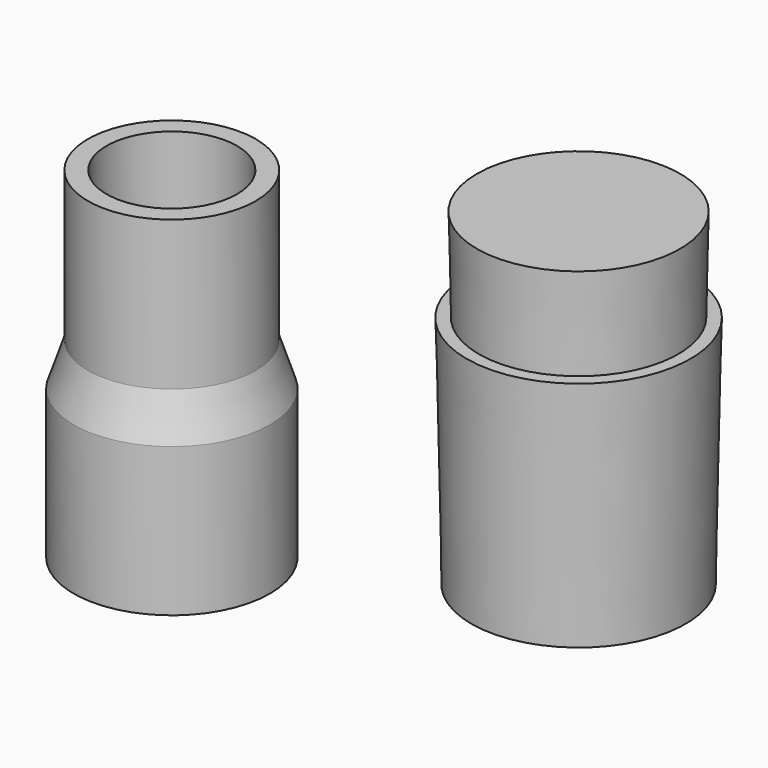
from build123d import *


with BuildPart() as f1:
    # F0 (on Front) → F1 (revolve)
    with BuildSketch(Plane.XZ):
        Polygon((11.25, 25.7), (11.25, 45.7), (8.75, 45.7), (8.75, 25.297935), (10.659597, 19.514646), (10.659597, 0), (13.159597, 0), (13.159597, 19.916711), align=None)
    revolve(axis=Axis((0, 0, 23.68312), (0, 0, -1)))


with BuildPart() as f2:
    # F0 (on Front) → F2 (revolve)
    with BuildSketch(Plane.XZ):
        Polygon((39.514101, 46.025993), (40.14345, 14.55858), (54.51845, 14.55858), (54.51845, 58.55858), (40.89345, 58.55858), (41.14345, 46.05858), align=None)
    revolve(axis=Axis((54.51845, 0, 39.520296), (0, 0, -1)))


solid = Compound([f1.part, f2.part])
